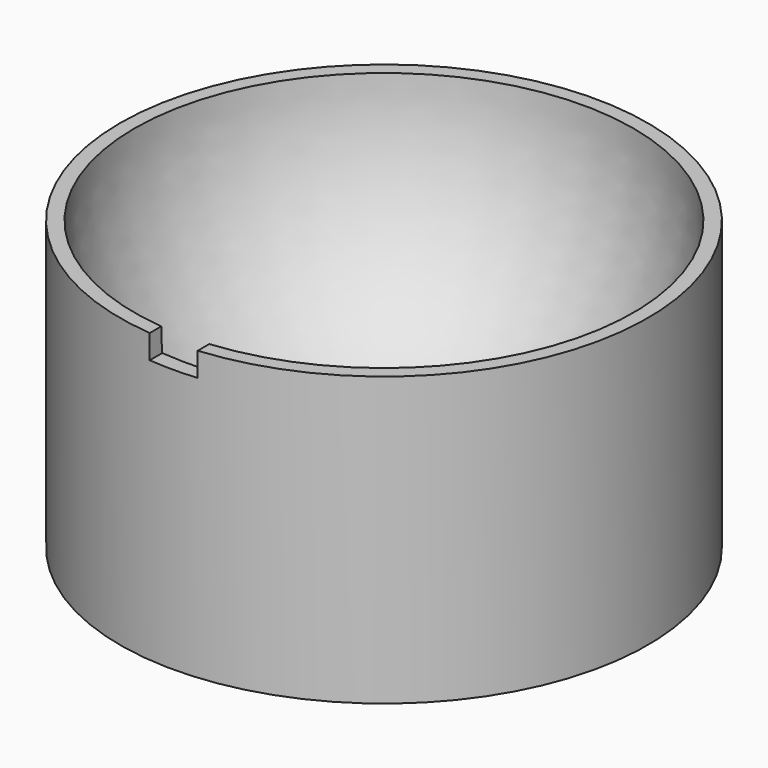
from build123d import *

# Parameters (mm, degrees)
F2_T     = -2.5
F3_W     = 10
F3_H     = 5
F4_DEPTH = 55


with BuildPart() as f1:
    # F0 (on Front) → F1 (revolve)
    with BuildSketch(Plane.XZ):
        with BuildLine():
            ThreePointArc((0, -52), (-36.769553, -36.769553), (-52, 0))
            Line((-52, 0), (-55, 0))
            Line((-55, 0), (-55, -60))
            Line((-55, -60), (0, -60))
            Line((0, -60), (0, -52))
        make_face()
    revolve(axis=Axis((0, 0, -56), (0, 0, -1)))

    # F2
    f2_openings = [f1.faces().sort_by_distance(p)[0] for p in [
        (0, 0, -60),
    ]]
    offset(amount=F2_T, openings=f2_openings)

    # F3 (on Front) → F4 (cut)
    with BuildSketch(Plane.XZ):
        with Locations((0, -2.5)):
            Rectangle(F3_W, F3_H)
    extrude(amount=F4_DEPTH, mode=Mode.SUBTRACT)


solid = f1.part
